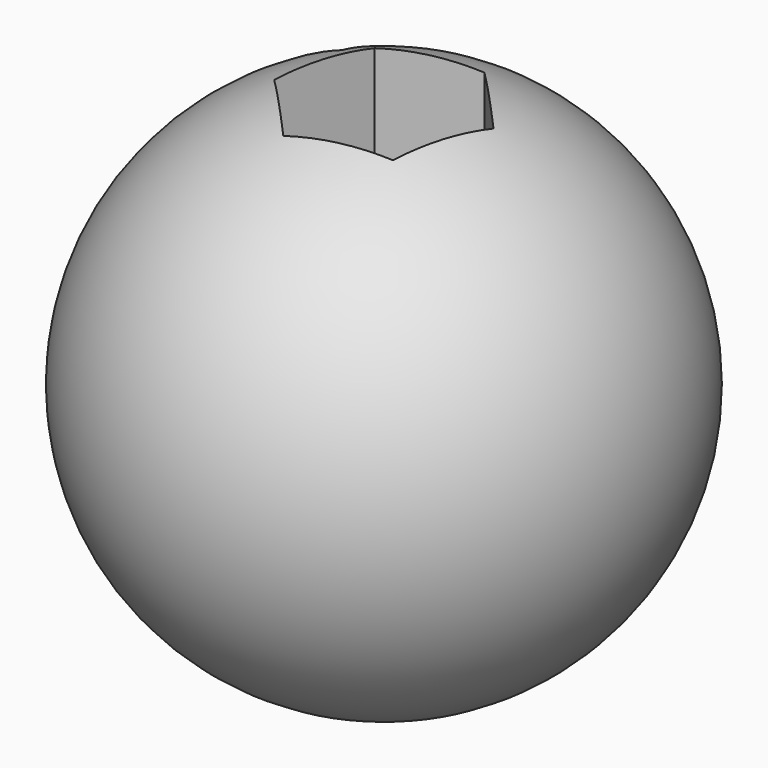
from build123d import *

# Parameters (mm, degrees)
F2_W     = 14.282297
F2_H     = 13.699342
F3_DEPTH = 67.818
F4_DEPTH = 221.996
F6_DEPTH = 96.774
F7_DEPTH = 104.648


with BuildPart() as f1:
    # F0 (on Front) → F1 (revolve)
    with BuildSketch(Plane.XZ):
        with BuildLine():
            Line((0, -55.817544), (0, 55.817544))
            ThreePointArc((0, 55.817544), (-55.817544, 0), (0, -55.817544))
        make_face()
    revolve(axis=Axis((0, 0, 0.145737), (0, 0, -1)))

    # F2 (on Top) → F3 (cut)
    with BuildSketch(Plane.XY):
        with Locations((-25.504099, 18.654426)):
            Rectangle(F2_W, F2_H)
    extrude(amount=-F3_DEPTH, mode=Mode.SUBTRACT)

    # F2 (on Top) → F4 (cut)
    with BuildSketch(Plane.XY):
        with Locations((-25.504099, 18.654426)):
            Rectangle(F2_W, F2_H)
    extrude(amount=F4_DEPTH, mode=Mode.SUBTRACT)

    # F5 (on Top) → F6 (cut)
    with BuildSketch(Plane.XY):
        Polygon((19.57916, 4.506355), (5.886962, 19.209227), (-13.692198, 14.702872), (-19.57916, -4.506355), (-5.886962, -19.209227), (13.692198, -14.702872), align=None)
    extrude(amount=-F6_DEPTH, mode=Mode.SUBTRACT)

    # F6_face (on face) → F7 (cut)
    with BuildSketch(Plane(origin=(0, 0, 0), x_dir=(1, 0, 0), z_dir=(0, 0, -1))):
        Polygon((5.886962, -19.209227), (19.57916, -4.506355), (13.692198, 14.702872), (-5.886962, 19.209227), (-19.57916, 4.506355), (-13.692198, -14.702872), align=None)
    extrude(amount=-F7_DEPTH, mode=Mode.SUBTRACT)


solid = f1.part
